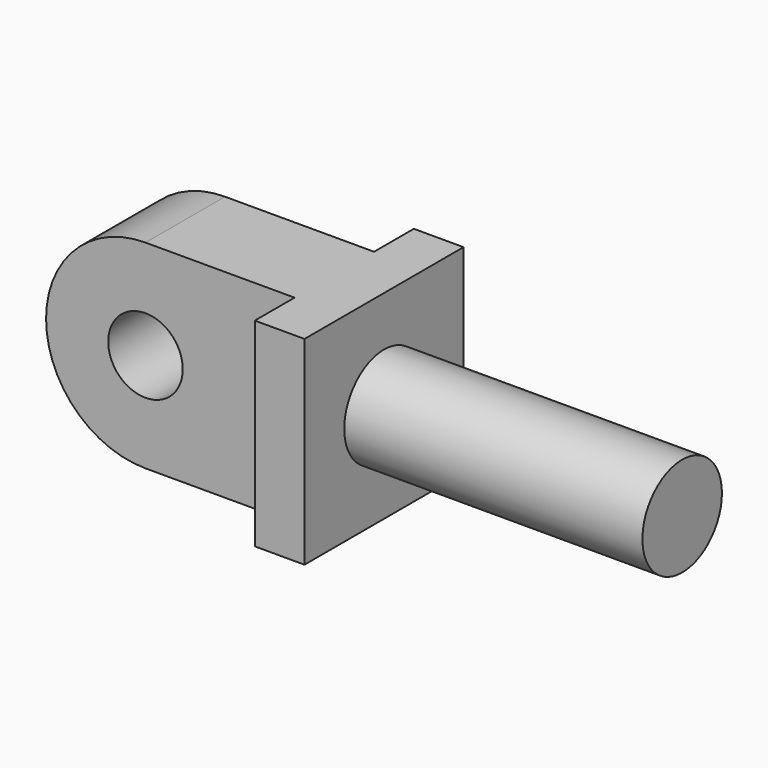
from build123d import *

# Parameters (mm, degrees)
F0_R     = 9.525
F0_W     = 12.7
F0_H     = 50.8
F1_DEPTH = 12.7
F2_W     = 12.7
F2_H     = 50.8
F3_DEPTH = 12.7
F4_W     = 12.7
F4_H     = 50.8
F5_DEPTH = 12.7
F6_R     = 12.7
F7_DEPTH = 76.2


with BuildPart() as f1:
    # F0 (on Front) → F1 (new body, symmetric)
    with BuildSketch(Plane.XZ):
        with BuildLine():
            ThreePointArc((0, -25.4), (17.960512, -17.960512), (25.4, 0))
            ThreePointArc((25.4, 0), (17.960512, 17.960512), (0, 25.4))
            ThreePointArc((0, 25.4), (-25.4, 0), (0, -25.4))
        make_face()
        Circle(F0_R, mode=Mode.SUBTRACT)
        with BuildLine():
            ThreePointArc((0, 25.4), (17.960512, 17.960512), (25.4, 0))
            ThreePointArc((25.4, 0), (17.960512, -17.960512), (0, -25.4))
            Line((0, -25.4), (38.1, -25.4))
            Line((38.1, -25.4), (38.1, 25.4))
            Line((38.1, 25.4), (0, 25.4))
        make_face()
        with Locations((44.45, 0)):
            Rectangle(F0_W, F0_H)
    extrude(amount=F1_DEPTH, both=True)

    # F2 (on face) → F3 (join)
    with BuildSketch(Plane.XZ.offset(12.7)):
        with Locations((44.45, 0)):
            Rectangle(F2_W, F2_H)
    extrude(amount=F3_DEPTH)

    # F4 (on face) → F5 (join)
    with BuildSketch(Plane(origin=(0, 12.7, 0), x_dir=(-1, 0, 0), z_dir=(0, 1, 0))):
        with Locations((-44.45, 0)):
            Rectangle(F4_W, F4_H)
    extrude(amount=F5_DEPTH)

    # F6 (on face) → F7 (join)
    with BuildSketch(Plane.YZ.offset(50.8)):
        Circle(F6_R)
    extrude(amount=F7_DEPTH)


solid = f1.part
